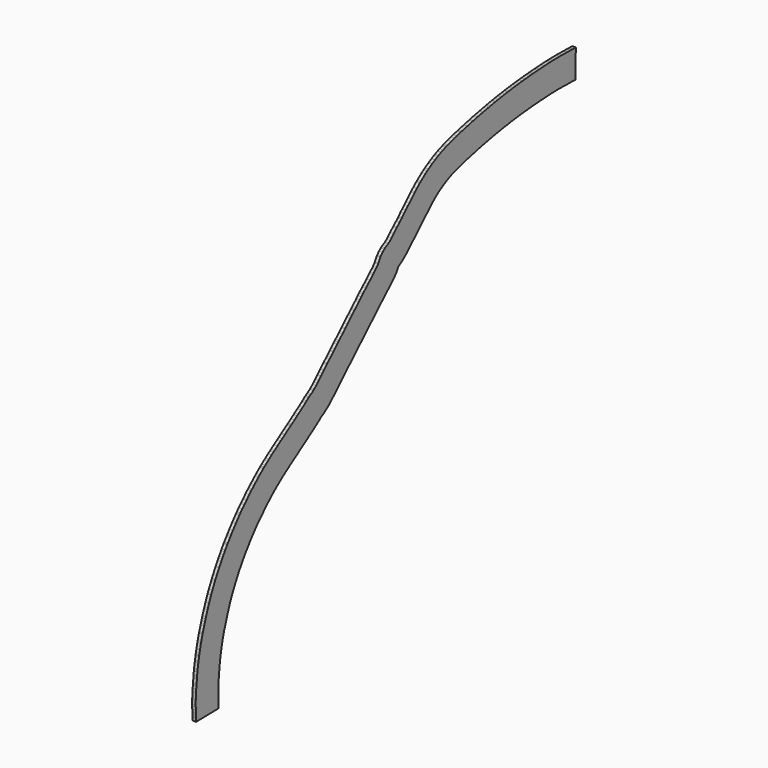
from build123d import *

# Parameters (mm, degrees)
F1_DEPTH = 2.5


with BuildPart() as f1:
    # F0 (on Right) → F1 (new body)
    with BuildSketch(Plane.YZ):
        Polygon((33.320472, 70.462255), (33.534371, 90.461115), (30.93002, 90.48897), (30.23791, 90.512118), (28.807905, 90.520464), (26.318127, 90.529441), (25.604981, 90.548189), (19.078849, 90.684521), (19.024001, 90.685707), (13.42129, 90.589528), (11.898432, 90.53694), (10.432824, 90.460769), (5.781059, 90.205579), (1.213921, 89.958439), (-0.318839, 89.862124), (-4.181295, 89.564734), (-5.694529, 89.452568), (-6.294028, 89.403338), (-11.274799, 88.954907), (-13.821874, 88.707744), (-16.764154, 88.388029), (-19.110597, 88.125199), (-22.272322, 87.764569), (-26.291608, 87.217482), (-26.852661, 87.140438), (-29.152642, 86.803102), (-32.05357, 86.375507), (-32.594237, 86.298038), (-35.021375, 85.901961), (-37.360327, 85.519925), (-37.796515, 85.445478), (-42.070758, 84.678703), (-43.27465, 84.455248), (-44.909582, 84.154028), (-48.392619, 83.476896), (-48.640262, 83.426256), (-53.458612, 82.475687), (-57.094986, 81.651778), (-57.321729, 81.599466), (-57.856717, 81.471146), (-62.429145, 80.388168), (-67.540645, 79.19115), (-67.941097, 79.091303), (-68.381168, 78.977796), (-71.803943, 78.094146), (-73.849405, 77.517709), (-76.714545, 76.703103), (-79.953478, 75.649279), (-80.890717, 75.356717), (-81.624788, 75.07853), (-83.957596, 74.208909), (-85.698446, 73.541229), (-88.095575, 72.443708), (-88.817441, 72.104449), (-91.062812, 70.906603), (-93.296097, 69.734082), (-93.936467, 69.366059), (-96.912876, 67.582057), (-97.912455, 66.91585), (-99.726138, 65.73269), (-103.64571, 62.748901), (-104.371518, 62.190436), (-104.764933, 61.868526), (-107.034488, 59.844668), (-108.81541, 58.244708), (-109.387482, 57.70603), (-111.876329, 55.174715), (-113.831659, 53.319202), (-115.127265, 52.031268), (-117.095578, 50.099792), (-118.52967, 48.745362), (-120.339875, 46.804058), (-120.596242, 46.539124), (-121.087975, 46.055507), (-122.306402, 44.885725), (-122.64099, 44.577506), (-124.636492, 42.845102), (-125.112598, 42.386042), (-127.691395, 39.882908), (-127.706466, 39.867598), (-127.73364, 39.839488), (-129.620165, 37.92072), (-141.679156, 26.233762), (-142.573714, 25.258532), (-143.427985, 24.321028), (-144.28772, 23.523264), (-145.509645, 22.393119), (-146.22699, 21.718189), (-148.735734, 19.261201), (-150.31288, 17.761916), (-151.56999, 16.592145), (-152.436936, 15.827868), (-154.525122, 13.911655), (-155.196902, 13.292134), (-156.458653, 12.022449), (-157.725569, 10.680599), (-158.566147, 9.823741), (-161.205032, 7.334889), (-162.065808, 6.525564), (-162.544288, 6.082954), (-164.373357, 4.313795), (-165.104431, 3.587276), (-166.197847, 2.531736), (-168.588009, 0.132358), (-168.607443, 0.112102), (-168.617013, 0.103323), (-168.640561, 0.081167), (-170.378796, -1.551041), (-170.889535, -2.051553), (-172.538795, -3.672343), (-173.199768, -4.331744), (-176.218388, -7.198332), (-176.92675, -7.862322), (-177.874701, -8.849414), (-179.989685, -10.921577), (-180.970047, -11.798526), (-181.359473, -12.17275), (-182.741333, -13.545763), (-183.703952, -14.514002), (-184.44762, -15.26526), (-186.327158, -16.973126), (-186.794846, -17.384174), (-187.054862, -17.667626), (-189.348734, -20.027838), (-189.71883, -20.385258), (-190.86826, -21.523618), (-192.033862, -22.686693), (-192.310621, -22.943582), (-194.122626, -24.708395), (-195.247943, -25.838623), (-196.458544, -27.01968), (-197.938377, -28.335297), (-198.586062, -28.912882), (-198.91539, -29.136803), (-200.730191, -30.389504), (-201.46058, -30.780434), (-202.511642, -31.399037), (-203.085038, -31.748709), (-203.613436, -32.09721), (-204.840229, -33.11189), (-205.608234, -33.7354), (-206.124581, -34.106278), (-208.367195, -35.706097), (-209.896144, -36.767192), (-212.230625, -38.322438), (-213.261627, -39.030873), (-215.597392, -40.676694), (-217.925926, -42.266544), (-218.603562, -42.709827), (-219.25201, -43.129026), (-221.648143, -44.667984), (-223.793348, -46.116391), (-224.409428, -46.547657), (-226.309038, -47.794013), (-227.761363, -48.74494), (-230.657018, -50.706505), (-230.874128, -50.855343), (-233.366588, -52.543127), (-234.31649, -53.176136), (-235.900801, -54.258084), (-238.094907, -55.905932), (-239.300326, -56.80756), (-241.438115, -58.40216), (-242.392635, -59.120665), (-242.794098, -59.428459), (-243.334814, -59.870288), (-246.311641, -62.336623), (-247.649747, -63.486771), (-249.707426, -65.352584), (-251.011927, -66.537972), (-251.650179, -67.118032), (-253.05831, -68.407101), (-254.030837, -69.308314), (-255.761623, -70.955495), (-257.810344, -73.277052), (-257.970534, -73.451928), (-258.083111, -73.570093), (-259.473335, -74.964234), (-260.051168, -75.539369), (-261.881767, -77.342893), (-261.902931, -77.364153), (-263.505668, -79.195578), (-264.049083, -79.781243), (-264.486385, -80.309235), (-265.781616, -81.894406), (-267.218452, -83.668386), (-267.680061, -84.242305), (-270.101009, -87.264791), (-271.608279, -89.354924), (-272.232792, -90.229979), (-272.721938, -90.876536), (-274.566688, -93.390232), (-274.916771, -93.864858), (-274.987561, -93.958516), (-275.251123, -94.349886), (-276.944755, -96.851834), (-277.489528, -97.744897), (-278.339672, -99.103929), (-279.136053, -100.403151), (-279.785612, -101.444127), (-280.558172, -102.649866), (-282.263219, -105.526022), (-282.368855, -105.71065), (-282.401775, -105.767476), (-282.443482, -105.841126), (-284.502372, -109.684219), (-285.540991, -111.655383), (-285.917458, -112.391068), (-286.365924, -113.292771), (-288.304874, -117.346466), (-289.362835, -119.644786), (-289.511426, -119.996705), (-291.143996, -123.981077), (-291.22935, -124.192115), (-291.334794, -124.436576), (-292.341975, -127.098452), (-292.623506, -127.894072), (-293.953095, -131.512414), (-294.311306, -132.654802), (-294.886512, -134.531222), (-295.518637, -136.485046), (-296.828445, -140.344817), (-296.892452, -140.53587), (-296.91653, -140.618308), (-297.01608, -140.987277), (-298.165975, -145.245497), (-298.534843, -146.63925), (-299.322622, -150.093764), (-299.894746, -152.885495), (-300.019777, -153.507113), (-300.084019, -153.862123), (-300.560138, -156.498069), (-300.696274, -157.233176), (-300.726899, -157.409684), (-300.787867, -157.773891), (-301.41843, -161.39021), (-301.599665, -162.944222), (-301.83445, -165.561172), (-301.979381, -167.038637), (-302.35124, -170.335965), (-302.444969, -171.165847), (-302.618742, -173.263991), (-302.798379, -175.337633), (-303.001448, -179.067713), (-303.012798, -179.527492), (-303.034905, -180.121888), (-303.041084, -183.172966), (-303.026937, -184.465506), (-303.023465, -185.876757), (-302.877659, -188.205842), (-302.807705, -189.688471), (-302.783103, -191.109579), (-302.743633, -193.550149), (-282.746244, -193.226742), (-282.785898, -190.774783), (-282.815862, -189.043935), (-282.907125, -187.109678), (-283.025, -185.226769), (-283.027202, -184.331457), (-283.040858, -183.083769), (-283.035654, -180.513928), (-283.021969, -180.145966), (-283.014867, -179.858274), (-282.845358, -176.744653), (-282.690102, -174.952449), (-282.537835, -173.113968), (-282.477404, -172.57891), (-282.089089, -169.135661), (-281.921875, -167.431044), (-281.70346, -164.996556), (-281.618568, -164.268641), (-281.073509, -161.142693), (-281.011161, -160.770242), (-281.010036, -160.763756), (-280.886472, -160.096537), (-280.403071, -157.420278), (-280.374071, -157.26002), (-280.294623, -156.865024), (-279.774136, -154.325262), (-279.112186, -151.422524), (-278.844492, -150.411054), (-277.754667, -146.37528), (-276.533626, -142.777091), (-275.810062, -140.54064), (-275.20833, -138.577687), (-275.013786, -137.957258), (-273.809252, -134.679241), (-273.559688, -133.973959), (-272.790069, -131.939936), (-272.774206, -131.903159), (-272.620066, -131.522048), (-271.057381, -127.708232), (-270.198937, -125.843344), (-268.389985, -122.061432), (-268.061004, -121.399971), (-267.791187, -120.8727), (-266.840418, -119.068263), (-264.957194, -115.553065), (-263.531088, -113.147441), (-262.881273, -112.133271), (-262.126181, -110.923169), (-261.335667, -109.633517), (-260.474087, -108.256205), (-260.117228, -107.671195), (-258.675506, -105.541385), (-258.655826, -105.512162), (-258.457058, -105.242682), (-256.684237, -102.826998), (-256.115124, -102.074739), (-255.357556, -101.01325), (-254.174896, -99.373255), (-252.082806, -96.761339), (-251.6553, -96.22982), (-250.267008, -94.515775), (-249.041021, -93.015348), (-249.005153, -92.972042), (-248.646708, -92.585728), (-247.336963, -91.0891), (-245.97838, -89.750611), (-245.337773, -89.112995), (-243.760049, -87.530826), (-243.355026, -87.105699), (-242.937231, -86.649601), (-241.34243, -84.842415), (-240.339258, -83.887701), (-239.508803, -83.118142), (-238.172123, -81.894482), (-237.561164, -81.339226), (-236.265061, -80.16147), (-234.4118, -78.481014), (-233.412313, -77.621921), (-230.627317, -75.314519), (-230.379283, -75.111846), (-230.294011, -75.04647), (-229.445055, -74.407427), (-227.33168, -72.831038), (-226.099967, -71.909742), (-224.250069, -70.520407), (-223.131153, -69.756283), (-222.214016, -69.145108), (-219.612731, -67.383633), (-219.394147, -67.233784), (-216.674353, -65.391351), (-215.345419, -64.521216), (-213.18642, -63.104672), (-212.462055, -62.597604), (-210.646854, -61.372011), (-208.418922, -59.941083), (-207.700144, -59.476417), (-206.811773, -58.89528), (-204.198115, -57.110756), (-201.838068, -55.447826), (-201.022465, -54.887398), (-198.649267, -53.306359), (-196.857742, -52.063035), (-194.483286, -50.369164), (-193.460926, -49.63483), (-192.163594, -48.581583), (-191.886644, -48.352518), (-191.665406, -48.222308), (-190.297395, -47.4901), (-187.611773, -45.636299), (-186.254779, -44.713634), (-184.638501, -43.272288), (-182.823811, -41.658972), (-181.177564, -40.052902), (-180.05818, -38.928632), (-178.528397, -37.43869), (-178.162875, -37.099412), (-176.768047, -35.707607), (-175.734694, -34.684207), (-175.227249, -34.194142), (-172.868749, -31.767433), (-170.606068, -29.711419), (-169.505436, -28.599554), (-168.601255, -27.690094), (-167.381242, -26.477892), (-167.369744, -26.466843), (-166.31722, -25.525344), (-163.660394, -22.922309), (-162.865555, -22.094651), (-162.49327, -21.745686), (-159.2489, -18.664718), (-158.46671, -17.884388), (-156.881087, -16.326137), (-156.532778, -15.984803), (-155.009296, -14.554248), (-154.617282, -14.194636), (-154.286118, -13.849465), (-152.166484, -11.721657), (-151.109397, -10.701188), (-150.371406, -9.967795), (-148.799657, -8.447527), (-148.425049, -8.101003), (-147.493804, -7.225421), (-144.561067, -4.459424), (-143.314513, -3.188727), (-142.091927, -1.893829), (-141.317763, -1.114797), (-140.984585, -0.807538), (-139.061513, 0.95716), (-138.142448, 1.767383), (-136.610404, 3.192987), (-134.848073, 4.868315), (-132.376137, 7.289254), (-131.866941, 7.768343), (-130.695787, 8.85153), (-129.209532, 10.230653), (-127.81281, 11.763461), (-125.28708, 14.516963), (-123.79967, 17.246915), (-123.548166, 17.700567), (-122.785784, 18.113903), (-120.928357, 19.277287), (-118.238646, 21.225152), (-115.727748, 23.523568), (-113.583969, 25.703986), (-111.206514, 28.011686), (-111.130536, 28.084944), (-109.307073, 29.667992), (-108.604037, 30.315622), (-107.149879, 31.711723), (-106.395776, 32.45338), (-105.838622, 33.029151), (-104.335399, 34.641241), (-103.224084, 35.690824), (-101.073114, 37.801539), (-99.896245, 38.971439), (-97.857995, 40.905639), (-95.396278, 43.409361), (-95.275146, 43.523422), (-93.695892, 44.942206), (-91.837533, 46.599383), (-91.490328, 46.866536), (-88.190046, 49.378888), (-86.90249, 50.218828), (-86.219717, 50.673888), (-83.811781, 52.117158), (-83.661327, 52.203625), (-81.70738, 53.229488), (-79.851401, 54.219603), (-79.679037, 54.30061), (-77.946807, 55.093708), (-76.883442, 55.501548), (-74.588039, 56.357225), (-74.361456, 56.443092), (-73.879557, 56.593518), (-70.883742, 57.568241), (-68.402146, 58.273799), (-66.591119, 58.784169), (-63.383902, 59.612169), (-63.024178, 59.704952), (-62.840988, 59.750628), (-57.844278, 60.920765), (-53.219569, 62.016125), (-52.741186, 62.130868), (-52.637182, 62.154863), (-49.312558, 62.908137), (-44.701288, 63.817854), (-44.480749, 63.862951), (-41.18923, 64.50285), (-39.637807, 64.788685), (-38.480034, 65.003579), (-34.348263, 65.744796), (-34.065847, 65.792998), (-31.798807, 66.163288), (-29.56503, 66.527811), (-29.176965, 66.583414), (-26.243239, 67.015844), (-24.041, 67.338844), (-23.582452, 67.401812), (-19.790048, 67.918017), (-16.864172, 68.251746), (-14.570724, 68.50864), (-11.775699, 68.812353), (-9.412236, 69.041699), (-4.578873, 69.476859), (-4.136868, 69.513155), (-2.674408, 69.621558), (1.076048, 69.910324), (2.381418, 69.992351), (6.869159, 70.235194), (11.499612, 70.489215), (12.762638, 70.554858), (13.938087, 70.595449), (18.985714, 70.682099), (25.13332, 70.553674), (26.019232, 70.530384), (28.713487, 70.52067), (29.845204, 70.514065), (30.488744, 70.492542), align=None)
        Polygon((-141.679156, 26.233762), (-129.620165, 37.92072), (-130.897522, 36.751458), (-132.114535, 35.870108), (-132.870087, 35.396874), (-134.356007, 34.591262), (-135.442865, 34.012864), (-136.062054, 33.490157), (-137.541922, 32.23996), (-139.194155, 30.447589), (-139.501792, 30.129443), (-139.629471, 29.942024), (-141.326964, 26.880166), align=None)
    extrude(amount=F1_DEPTH)


solid = f1.part
